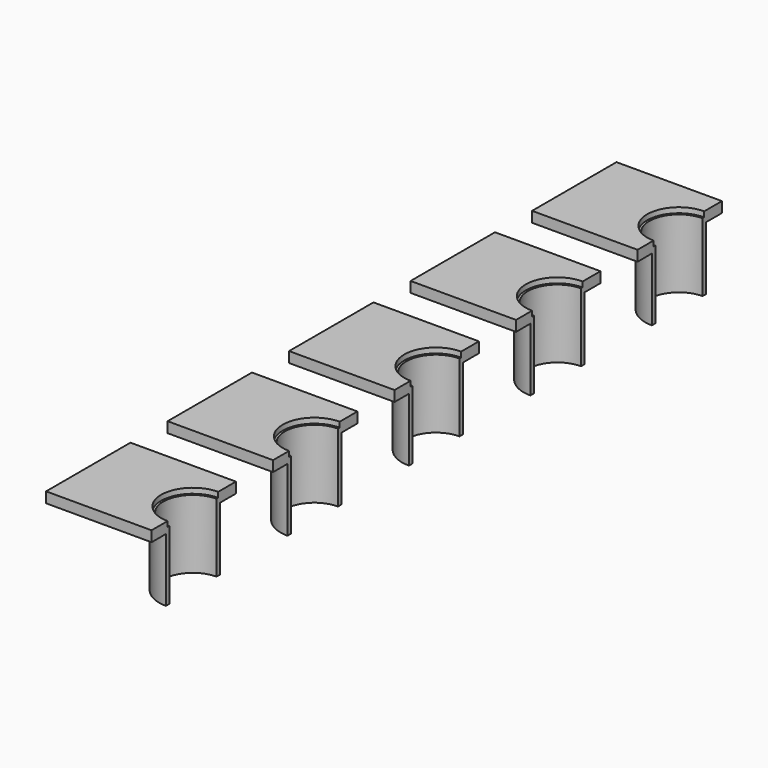
from build123d import *

# Parameters (mm, degrees)
CYLINDER002_R          = 0.3
CYLINDER002_DEPTH      = 1
BOX004_W               = 1
BOX004_H               = 1
BOX004_DEPTH           = 0.1
BOX006_W               = 1
BOX006_H               = 1
BOX006_DEPTH           = 1
CYLINDER005_R          = 0.28
CYLINDER005_DEPTH      = 3
CYLINDER006_R          = 0.32
CYLINDER006_DEPTH      = 0.65
CUT009_PLACEMENT_ANGLE = 180
ARRAY005_Y_COUNT       = 5
ARRAY005_Y_PITCH       = 1.44


with BuildPart() as cylinder002:
    # Cylinder002 → Cylinder002 (new body)
    with BuildSketch(Plane(origin=(10, 0, 0), x_dir=(-1, 0, 0), z_dir=(0, 0, 1))):
        Circle(CYLINDER002_R)
    extrude(amount=CYLINDER002_DEPTH)


with BuildPart() as cut005:
    # Box004 → Box004 (new body)
    with BuildSketch(Plane(origin=(9, -0.49, 0.6), x_dir=(1, 0, 0), z_dir=(0, 0, 1))):
        with Locations((0.5, 0.5)):
            Rectangle(BOX004_W, BOX004_H)
    extrude(amount=BOX004_DEPTH)

    # Cut005: cut Cylinder002
    add(cylinder002.part, mode=Mode.SUBTRACT)


with BuildPart() as kub006:
    # Box006 → Box006 (new body)
    with BuildSketch(Plane(origin=(-1, -0.5, 0), x_dir=(1, 0, 0), z_dir=(0, 0, 1))):
        with Locations((0.5, 0.5)):
            Rectangle(BOX006_W, BOX006_H)
    extrude(amount=BOX006_DEPTH)


with BuildPart() as cylinder005:
    # Cylinder005 → Cylinder005 (new body)
    with BuildSketch(Plane.XY.offset(-1)):
        Circle(CYLINDER005_R)
    extrude(amount=CYLINDER005_DEPTH)


with BuildPart() as array005:
    # Cylinder006 → Cylinder006 (new body)
    with BuildSketch(Plane.XY):
        Circle(CYLINDER006_R)
    extrude(amount=CYLINDER006_DEPTH)

    # Cut008: cut Cylinder005
    add(cylinder005.part, mode=Mode.SUBTRACT)

    # Cut009: cut Kub006
    add(kub006.part, mode=Mode.SUBTRACT)


with BuildPart() as array005_1:
    # Cut009 placement: moved
    add(array005.part.moved(Location((10, 0, 0))).rotate(Axis((10, 0, 0), (0, 0, 1)), CUT009_PLACEMENT_ANGLE))

    # Fusion001: union Cut005
    add(cut005.part)

    # Array005 Y: Array005 ×5


with BuildPart() as array005_2:
    add(array005_1.part)
    with Locations(*[(0, -i * ARRAY005_Y_PITCH, 0) for i in range(1, ARRAY005_Y_COUNT)]):
        add(array005_1.part)


with BuildPart() as array005_3:
    # Array005 placement: moved
    add(array005_2.part.moved(Location((-5, 2.88, 0))))


solid = array005_3.part
